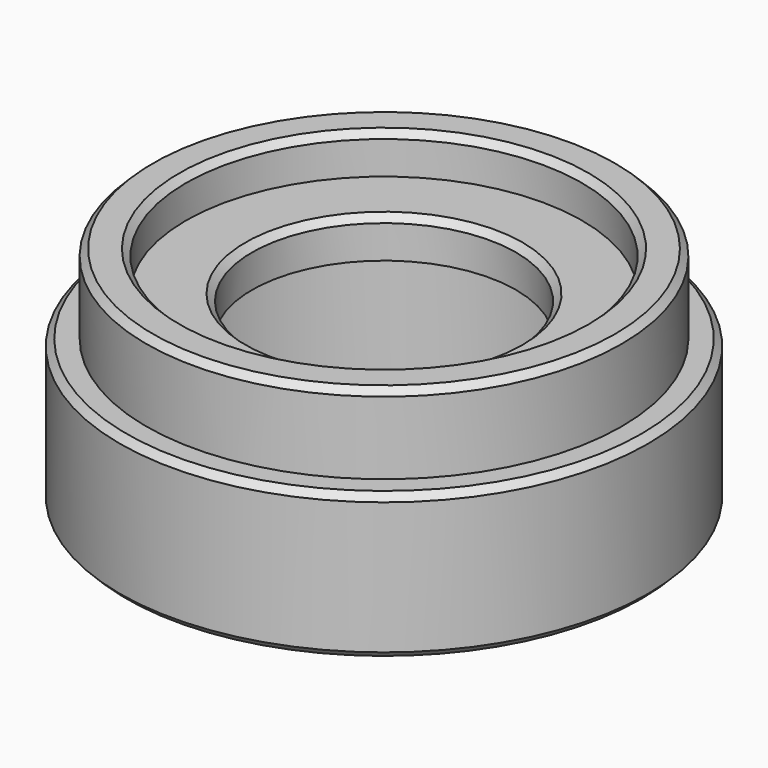
from build123d import *

# Parameters (mm, degrees)
F2_SIZE2 = 0.5
F2_SIZE  = 0.5


with BuildPart() as f1:
    # F0 (on Front) → F1 (revolve)
    with BuildSketch(Plane.XZ):
        Polygon((18, 17), (15, 17), (15, 14), (10, 14), (10, 11), (15, 11), (15, 0), (20, 0), (20, 11), (18, 11), align=None)
    revolve(axis=Axis((0, 0, 8.282995), (0, 0, -1)))

    # F2
    f2_edges = [f1.edges().sort_by_distance(p)[0] for p in [
        (-15, 0, 17),
        (-10, 0, 14),
        (-15, 0, 11),
        (-15, 0, 0),
        (-20, 0, 11),
        (-18, 0, 17),
        (-20, 0, 0),
    ]]
    chamfer(f2_edges, length=F2_SIZE, length2=F2_SIZE2)


solid = f1.part
